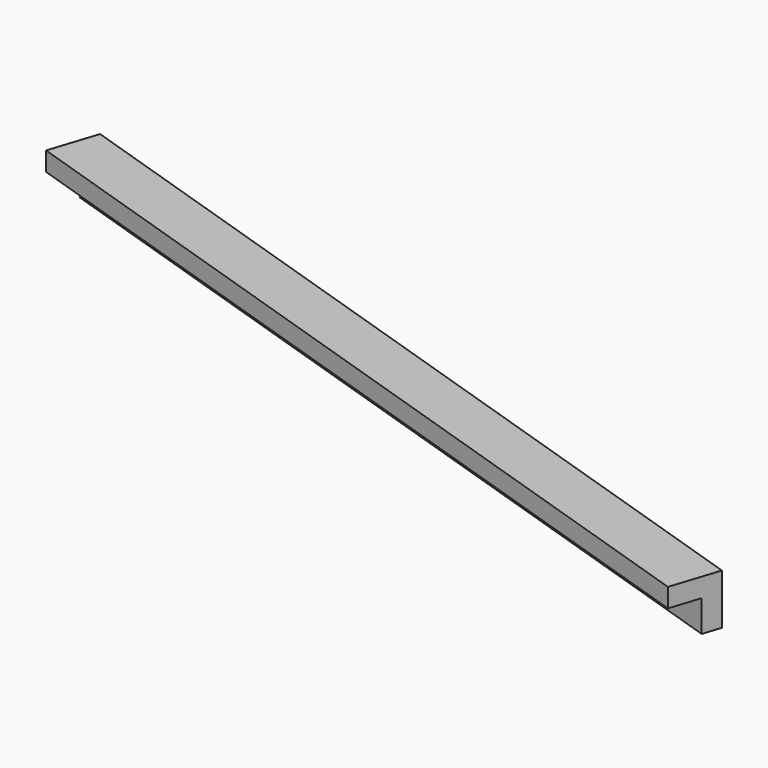
from build123d import *

# Parameters (mm, degrees)
BOX111_W               = 0.8
BOX111_H               = 17
BOX111_DEPTH           = 0.8
BOX112_W               = 0.8
BOX112_H               = 14
BOX112_DEPTH           = 0.8
CUT059_PLACEMENT_ANGLE = 72


with BuildPart() as cubo111:
    # Box111 → Box111 (new body)
    with BuildSketch(Plane.XY):
        with Locations((0.4, 8.5)):
            Rectangle(BOX111_W, BOX111_H)
    extrude(amount=BOX111_DEPTH)


with BuildPart() as obj1:
    # Box112 → Box112 (new body)
    with BuildSketch(Plane(origin=(0.3, 0, 0.3), x_dir=(1, 0, 0), z_dir=(0, 0, 1))):
        with Locations((0.4, 7)):
            Rectangle(BOX112_W, BOX112_H)
    extrude(amount=BOX112_DEPTH)

    # Cut059: cut Cubo111
    add(cubo111.part, mode=Mode.SUBTRACT)


with BuildPart() as obj1_1:
    # Cut059 placement: moved
    add(obj1.part.moved(Location((-206.4, 65.8, -1.45))).rotate(Axis((-206.4, 65.8, -1.45), (0, 0, 1)), CUT059_PLACEMENT_ANGLE))


solid = obj1_1.part
